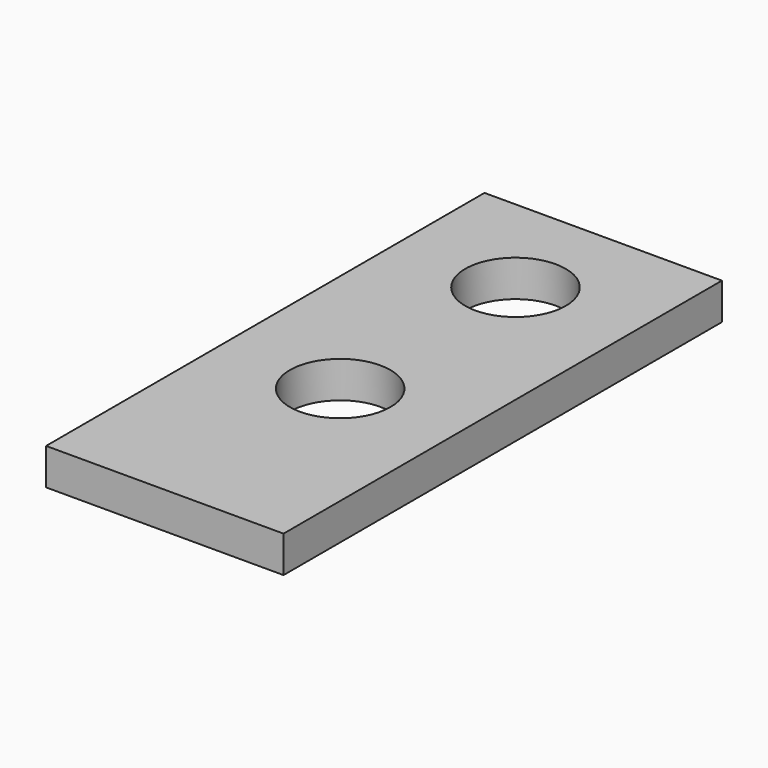
from build123d import *

# Parameters (mm, degrees)
F1_DEPTH = 82.55
F2_R     = 17.4625
F3_DEPTH = 25.4
F4_W     = 82.55
F4_H     = 114.3
F5_DEPTH = 25.401


with BuildPart() as f1:
    # F0 (on Right) → F1 (new body)
    with BuildSketch(Plane.YZ):
        Polygon((0, 127), (0, 0), (190.5, 0), (190.5, 12.7), (25.4, 12.7), (25.4, 127), align=None)
    extrude(amount=F1_DEPTH)

    # F2 (on face) → F3 (cut)
    with BuildSketch(Plane.XY.offset(12.7)):
        with Locations((41.275, 76.2)):
            Circle(F2_R)
        with Locations((41.275, 152.4)):
            Circle(F2_R)
    extrude(amount=-F3_DEPTH, mode=Mode.SUBTRACT)

    # F4 (on face) → F5 (cut, through all)
    with BuildSketch(Plane(origin=(0, 25.4, 0), x_dir=(-1, 0, 0), z_dir=(0, 1, 0))):
        with Locations((-41.275, 69.85)):
            Rectangle(F4_W, F4_H)
    extrude(amount=-F5_DEPTH, mode=Mode.SUBTRACT)


solid = f1.part
